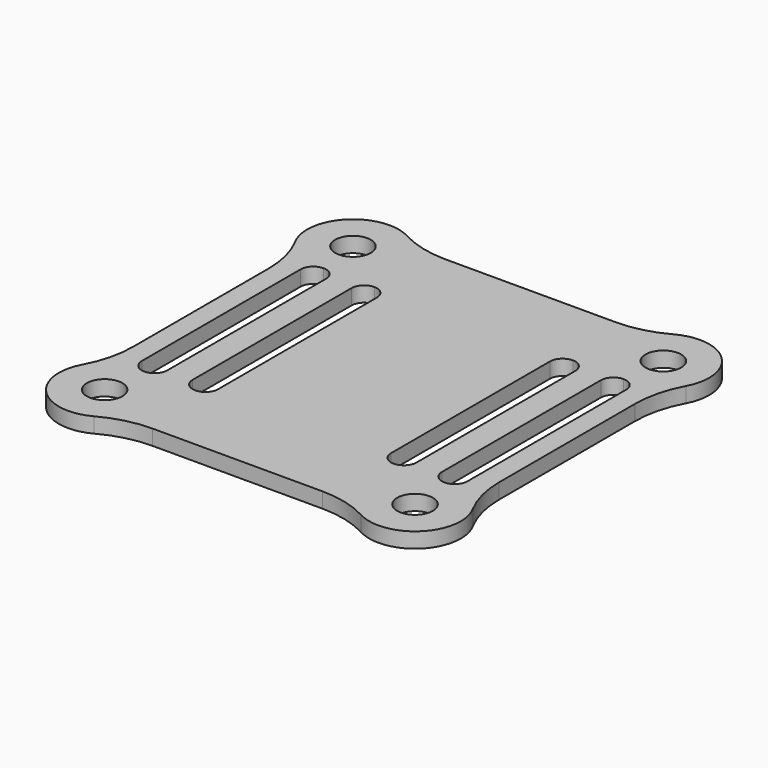
from build123d import *

# Parameters (mm, degrees)
F0_W     = 36
F0_H     = 36
F1_DEPTH = 1.5
F2_R     = 4.5
F3_DEPTH = 1.5
F4_R     = 1.75
F5_DEPTH = 1.501
F7_DEPTH = 1.501
F8_R     = 10


with BuildPart() as f1:
    # F0 (on Top) → F1 (new body)
    with BuildSketch(Plane.XY):
        Rectangle(F0_W, F0_H)
    extrude(amount=F1_DEPTH)

    # F2 (on Top) → F3 (join)
    with BuildSketch(Plane.XY):
        with Locations((-15.25, 15.25)):
            Circle(F2_R)
        with Locations((15.25, 15.25)):
            Circle(F2_R)
        with Locations((-15.25, -15.25)):
            Circle(F2_R)
        with Locations((15.25, -15.25)):
            Circle(F2_R)
    extrude(amount=F3_DEPTH)

    # F4 (on face) → F5 (cut, through all)
    with BuildSketch(Plane.XY.offset(1.5)):
        with Locations((-15.25, -15.25)):
            Circle(F4_R)
        with Locations((15.25, -15.25)):
            Circle(F4_R)
        with Locations((-15.25, 15.25)):
            Circle(F4_R)
        with Locations((15.25, 15.25)):
            Circle(F4_R)
    extrude(amount=-F5_DEPTH, mode=Mode.SUBTRACT)

    # F6 (on face) → F7 (cut, through all)
    with BuildSketch(Plane.XY.offset(1.5)):
        with BuildLine():
            ThreePointArc((-9.75, 11), (-10.6338834765, 10.6338834765), (-11, 9.75))
            Line((-11, 9.75), (-11, -9.75))
            ThreePointArc((-11, -9.75), (-10.6338834765, -10.6338834765), (-9.75, -11))
            ThreePointArc((-9.75, -11), (-8.8661165235, -10.6338834765), (-8.5, -9.75))
            Line((-8.5, -9.75), (-8.5, 9.75))
            ThreePointArc((-8.5, 9.75), (-8.8661165235, 10.6338834765), (-9.75, 11))
        make_face()
        with BuildLine():
            ThreePointArc((-14.75, 11), (-15.6338834765, 10.6338834765), (-16, 9.75))
            Line((-16, 9.75), (-16, -9.75))
            ThreePointArc((-16, -9.75), (-15.6338834765, -10.6338834765), (-14.75, -11))
            ThreePointArc((-14.75, -11), (-13.8661165235, -10.6338834765), (-13.5, -9.75))
            Line((-13.5, -9.75), (-13.5, 9.75))
            ThreePointArc((-13.5, 9.75), (-13.8661165235, 10.6338834765), (-14.75, 11))
        make_face()
        with BuildLine():
            ThreePointArc((9.75, 11), (8.8661165235, 10.6338834765), (8.5, 9.75))
            Line((8.5, 9.75), (8.5, -9.75))
            ThreePointArc((8.5, -9.75), (8.8661165235, -10.6338834765), (9.75, -11))
            ThreePointArc((9.75, -11), (10.6338834765, -10.6338834765), (11, -9.75))
            Line((11, -9.75), (11, 9.75))
            ThreePointArc((11, 9.75), (10.6338834765, 10.6338834765), (9.75, 11))
        make_face()
        with BuildLine():
            Line((16, -9.75), (16, 9.75))
            ThreePointArc((16, 9.75), (15.6338834765, 10.6338834765), (14.75, 11))
            ThreePointArc((14.75, 11), (13.8661165235, 10.6338834765), (13.5, 9.75))
            Line((13.5, 9.75), (13.5, -9.75))
            ThreePointArc((13.5, -9.75), (13.8661165235, -10.6338834765), (14.75, -11))
            ThreePointArc((14.75, -11), (15.6338834765, -10.6338834765), (16, -9.75))
        make_face()
    extrude(amount=-F7_DEPTH, mode=Mode.SUBTRACT)

    # F8
    f8_edges = [f1.edges().sort_by_distance(p)[0] for p in [
        (-18, 11.688048, 0.75),
        (-11.688048, 18, 0.75),
        (11.688048, 18, 0.75),
        (18, 11.688048, 0.75),
        (18, -11.688048, 0.75),
        (11.688048, -18, 0.75),
        (-11.688048, -18, 0.75),
        (-18, -11.688048, 0.75),
    ]]
    fillet(f8_edges, radius=F8_R)


solid = f1.part
